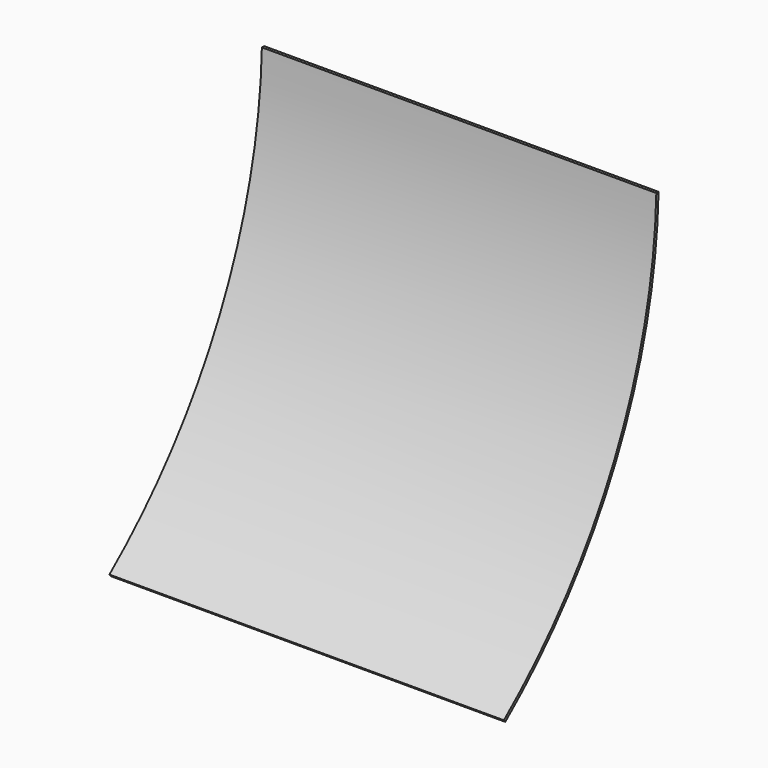
from build123d import *

# Parameters (mm, degrees)
F1_DEPTH = 444.5


with BuildPart() as f1:
    # F0 (on Right) → F1 (new body)
    with BuildSketch(Plane.YZ):
        with BuildLine():
            Line((39.512802, 226.890386), (36.33679, 226.890386))
            ThreePointArc((36.33679, 226.890386), (-23.157245, -14.54104), (-178.384369, -208.791429))
            Line((-178.384369, -208.791429), (-176.387198, -211.259614))
            ThreePointArc((-176.387198, -211.259614), (-20.291561, -15.908551), (39.512802, 226.890386))
        make_face()
    extrude(amount=F1_DEPTH)


solid = f1.part
